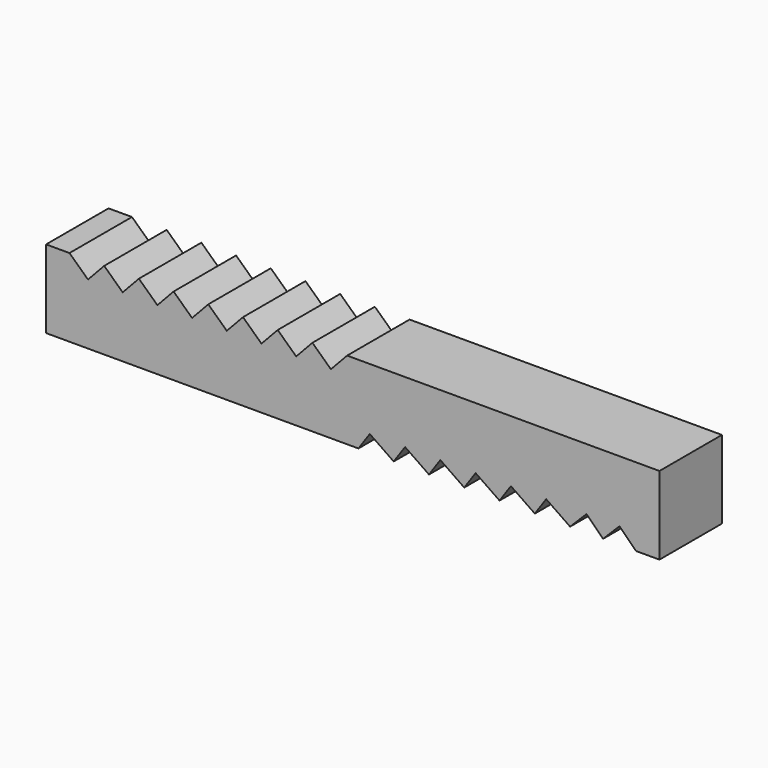
from build123d import *

# Parameters (mm, degrees)
F1_DEPTH = 12.7


with BuildPart() as f1:
    # F0 (on Front) → F1 (new body)
    with BuildSketch(Plane.XZ):
        Polygon((50.8, 3.062557), (0, 3.062557), (-2.637397, 0.246787), (-5.643603, 3.062557), (-8.281, 0.246787), (-11.287206, 3.062557), (-13.924603, 0.246787), (-16.930808, 3.062557), (-19.568206, 0.246787), (-22.574411, 3.062557), (-25.211809, 0.246787), (-28.218014, 3.062557), (-30.855411, 0.246787), (-33.861617, 3.062557), (-36.499014, 0.246787), (-39.50522, 3.062557), (-42.142617, 0.246787), (-45.148823, 3.062557), (-48.958823, 3.062557), (-48.958823, -9.637443), (0, -9.637443), (1.841177, -9.637443), (3.68863, -6.956616), (7.578761, -9.637443), (9.426213, -6.956616), (13.316345, -9.637443), (15.163797, -6.956616), (19.053929, -9.637443), (20.901381, -6.956616), (24.791513, -9.637443), (26.638965, -6.956616), (30.529096, -9.637443), (32.376549, -6.956616), (36.26668, -9.637443), (38.943388, -6.956616), (41.62834, -9.637443), (44.305048, -6.956616), (46.99, -9.637443), (50.8, -9.637443), align=None)
    extrude(amount=F1_DEPTH)


solid = f1.part
